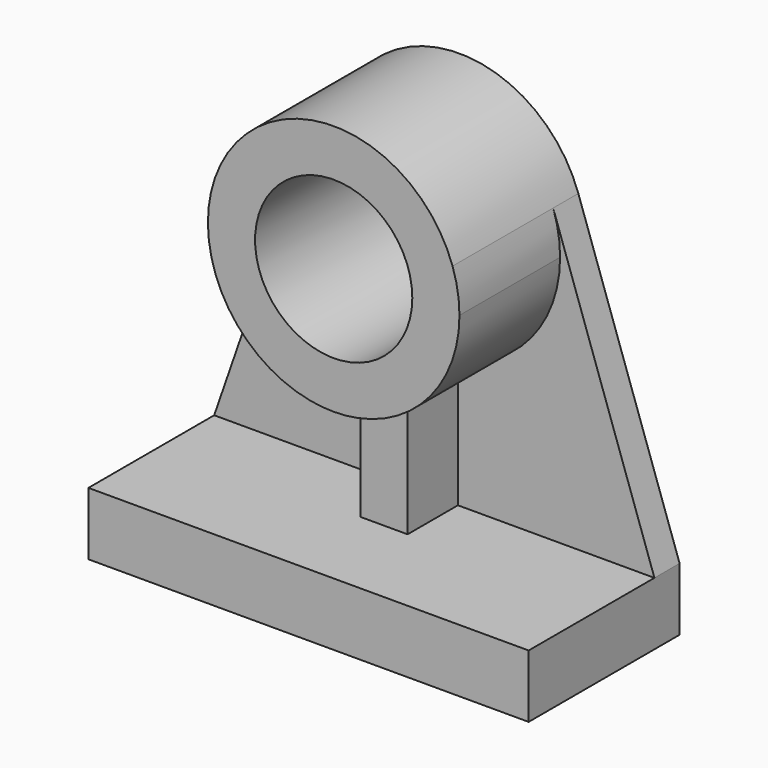
from build123d import *

# Parameters (mm, degrees)
F0_R     = 63.5
F1_DEPTH = 127
F2_DEPTH = 152.4
F3_DEPTH = 76.2
F4_DEPTH = 25.4


with BuildPart() as f1:
    # F0 (on Front) → F1 (new body)
    with BuildSketch(Plane.XZ):
        with BuildLine():
            ThreePointArc((19.05, -99.798084), (78.288058, -64.757548), (101.6, 0))
            ThreePointArc((101.6, 0), (100.194597, 16.840506), (96.017271, 33.215112))
            ThreePointArc((96.017271, 33.215112), (0, 101.6), (-96.017271, 33.215112))
            ThreePointArc((-96.017271, 33.215112), (-87.938881, -50.885295), (-19.05, -99.798084))
            ThreePointArc((-19.05, -99.798084), (0, -101.6), (19.05, -99.798084))
        make_face()
        Circle(F0_R, mode=Mode.SUBTRACT)
    extrude(amount=F1_DEPTH)



with BuildPart() as f2:
    # F0 (on Front) → F2 (new body)
    with BuildSketch(Plane.XZ):
        Polygon((177.8, -254), (177.8, -203.2), (19.05, -203.2), (-19.05, -203.2), (-177.8, -203.2), (-177.8, -254), align=None)
    extrude(amount=F2_DEPTH)


with BuildPart() as f1_1:
    add(f1.part)

    add(f2.part)  # F3 merges F2
    # F0 (on Front) → F3 (join)
    with BuildSketch(Plane.XZ):
        with BuildLine():
            Line((19.05, -203.2), (19.05, -99.798084))
            ThreePointArc((19.05, -99.798084), (0, -101.6), (-19.05, -99.798084))
            Line((-19.05, -99.798084), (-19.05, -203.2))
            Line((-19.05, -203.2), (19.05, -203.2))
        make_face()
    extrude(amount=F3_DEPTH)

    # F0 (on Front) → F4 (join)
    with BuildSketch(Plane.XZ):
        with BuildLine():
            ThreePointArc((-19.05, -99.798084), (-87.938881, -50.885295), (-96.017271, 33.215112))
            Line((-96.017271, 33.215112), (-177.8, -203.2))
            Line((-177.8, -203.2), (-19.05, -203.2))
            Line((-19.05, -203.2), (-19.05, -99.798084))
        make_face()
        with BuildLine():
            ThreePointArc((96.017271, 33.215112), (100.194597, 16.840506), (101.6, 0))
            ThreePointArc((101.6, 0), (78.288058, -64.757548), (19.05, -99.798084))
            Line((19.05, -99.798084), (19.05, -203.2))
            Line((19.05, -203.2), (177.8, -203.2))
            Line((177.8, -203.2), (96.017271, 33.215112))
        make_face()
    extrude(amount=F4_DEPTH)


solid = f1_1.part
